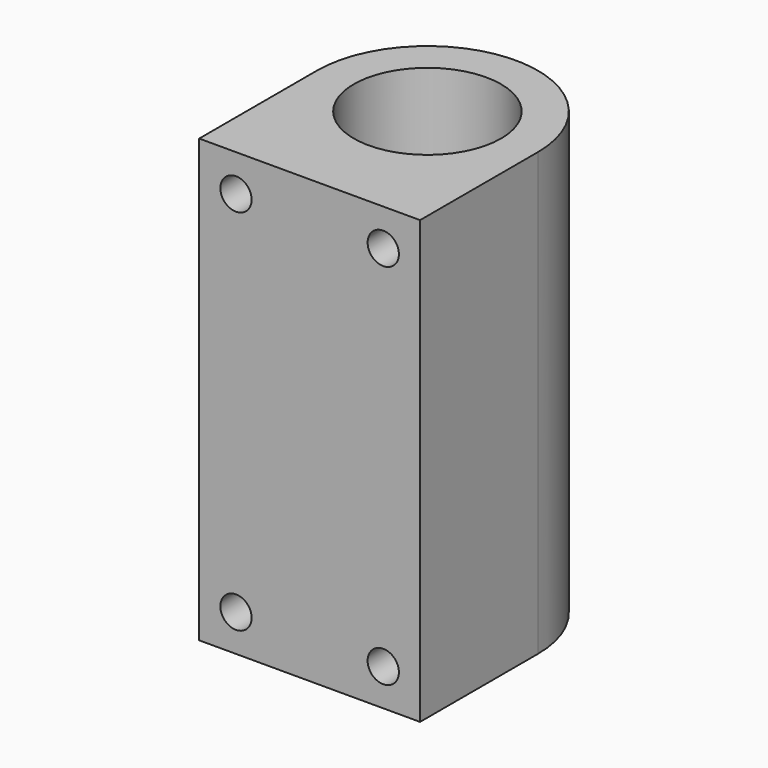
from build123d import *

# Parameters (mm, degrees)
F0_R     = 0.5
F1_DEPTH = 3
F2_R     = 0.106211
F3_DEPTH = 0.5


with BuildPart() as f1:
    # F0 (on Top) → F1 (new body)
    with BuildSketch(Plane.XY):
        with BuildLine():
            Line((-0.75, 1), (-0.75, 0))
            Line((-0.75, 0), (0.75, 0))
            Line((0.75, 0), (0.75, 1))
            ThreePointArc((0.75, 1), (0, 1.75), (-0.75, 1))
        make_face()
        with Locations((0, 1)):
            Circle(F0_R, mode=Mode.SUBTRACT)
    extrude(amount=F1_DEPTH)

    # F2 (on face) → F3 (cut)
    with BuildSketch(Plane.XZ):
        with Locations((-0.5, 2.75)):
            Circle(F2_R)
        with Locations((0.5, 0.25)):
            Circle(F2_R)
        with Locations((-0.5, 0.25)):
            Circle(F2_R)
        with Locations((0.5, 2.75)):
            Circle(F2_R)
    extrude(amount=-F3_DEPTH, mode=Mode.SUBTRACT)


solid = f1.part
